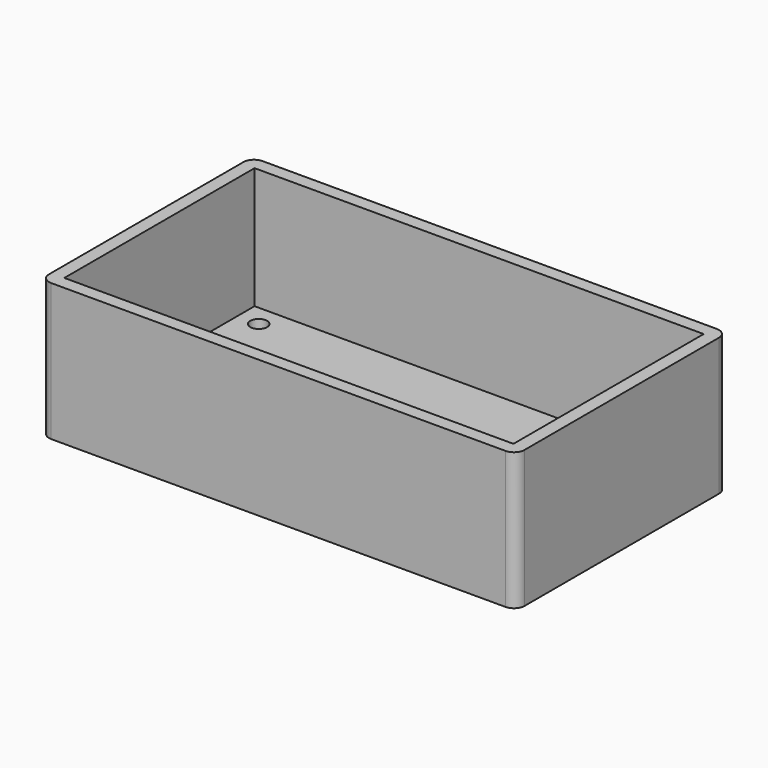
from build123d import *

# Parameters (mm, degrees)
F0_W     = 90
F0_H     = 50
F0_W_2   = 85
F0_H_2   = 45
F1_DEPTH = 3
F2_DEPTH = 26
F3_R     = 2
F4_R     = 5.75
F5_DEPTH = 3
F6_R     = 1.6
F7_DEPTH = 25


with BuildPart() as f1:
    # F0 (on Top) → F1 (new body)
    with BuildSketch(Plane.XY):
        Rectangle(F0_W, F0_H)
        Rectangle(F0_W_2, F0_H_2, mode=Mode.SUBTRACT)
        Rectangle(F0_W_2, F0_H_2)
    extrude(amount=F1_DEPTH)

    # F0 (on Top) → F2 (join)
    with BuildSketch(Plane.XY):
        Rectangle(F0_W, F0_H)
        Rectangle(F0_W_2, F0_H_2, mode=Mode.SUBTRACT)
    extrude(amount=F2_DEPTH)

    # F3
    f3_edges = [f1.edges().sort_by_distance(p)[0] for p in [
        (-45, -25, 13),
        (45, -25, 13),
        (-45, 25, 13),
        (45, 25, 13),
    ]]
    fillet(f3_edges, radius=F3_R)

    # F4 (on face) → F5 (cut, through all)
    with BuildSketch(Plane.XY.offset(3)):
        with Locations((34.75, 0)):
            Circle(F4_R)
    extrude(amount=-F5_DEPTH, mode=Mode.SUBTRACT)

    # F6 (on face) → F7 (cut)
    with BuildSketch(Plane(origin=(0, 0, 0), x_dir=(1, 0, 0), z_dir=(0, 0, -1))):
        with Locations((-38.462, -18.442)):
            Circle(F6_R)
        with Locations((-38.462, 18.442)):
            Circle(F6_R)
        with Locations((38.462, 18.442)):
            Circle(F6_R)
        with Locations((38.462, -18.442)):
            Circle(F6_R)
    extrude(amount=-F7_DEPTH, mode=Mode.SUBTRACT)


solid = f1.part
